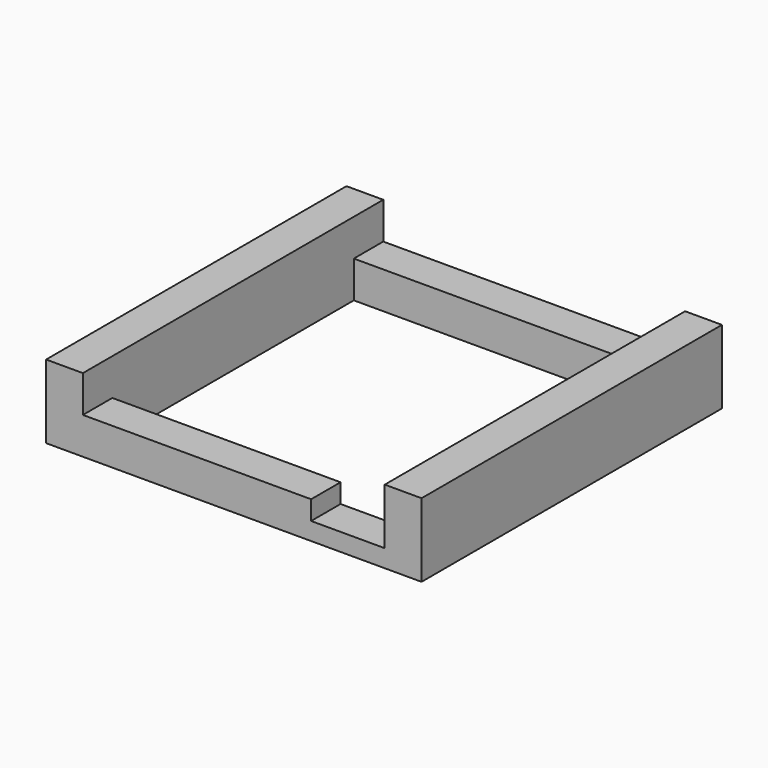
from build123d import *

# Parameters (mm, degrees)
F0_W     = 52.07
F0_H     = 52.07
F1_DEPTH = 12.7
F2_W     = 52.07
F2_H     = 6.35
F3_DEPTH = 6.35
F4_W     = 12.7
F4_H     = 6.35
F5_DEPTH = 3.302


with BuildPart() as f1:
    # F0 (on Top) → F1 (new body)
    with BuildSketch(Plane.XY):
        Polygon((41.3333964217, 37.3389664483), (-17.0866035783, 37.3389664483), (-23.4366035783, 37.3389664483), (-23.4366035783, -27.4310335517), (41.3333964217, -27.4310335517), align=None)
        with Locations((8.9483964217, 4.9539664483)):
            Rectangle(F0_W, F0_H, mode=Mode.SUBTRACT)
    extrude(amount=F1_DEPTH)

    # F2 (on face) → F3 (cut)
    with BuildSketch(Plane.XY.offset(12.7)):
        with Locations((8.9483964217, 34.1639664483)):
            Rectangle(F2_W, F2_H)
        with Locations((8.9483964217, -24.2560335517)):
            Rectangle(F2_W, F2_H)
    extrude(amount=-F3_DEPTH, mode=Mode.SUBTRACT)

    # F4 (on face) → F5 (cut)
    with BuildSketch(Plane.XY.offset(6.35)):
        with Locations((28.6333964217, -24.2560335517)):
            Rectangle(F4_W, F4_H)
    extrude(amount=-F5_DEPTH, mode=Mode.SUBTRACT)


solid = f1.part
